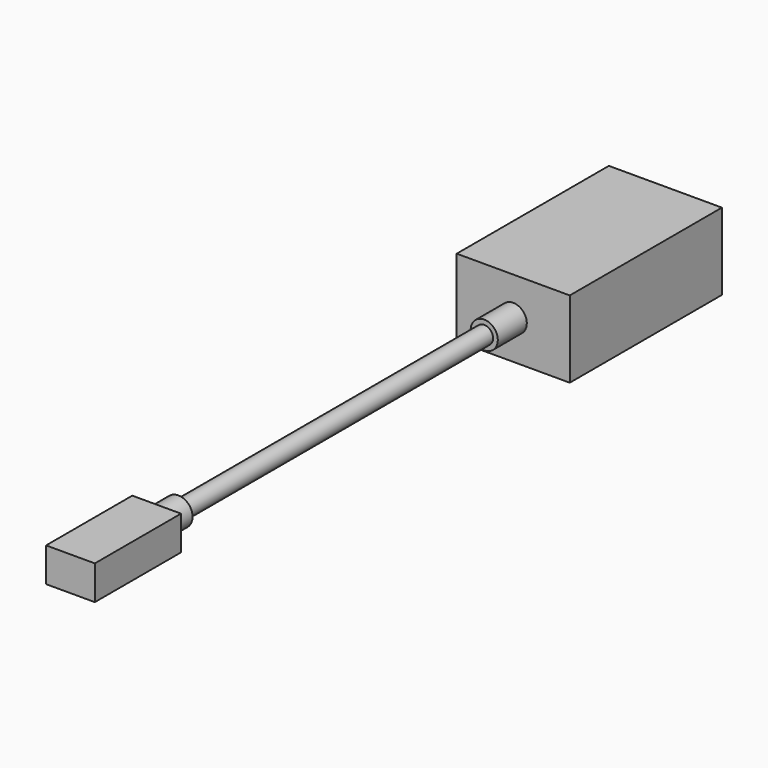
from build123d import *

# Parameters (mm, degrees)
F1_DEPTH = 7.79
F2_DEPTH = 3.46
F3_R     = 2.875
F4_DEPTH = 5.5
F5_R     = 1.8
F7_R     = 2.75
F8_DEPTH = 7.35


with BuildPart() as f1:
    # F0 (on Top) → F1 (new body, symmetric)
    with BuildSketch(Plane.XY):
        Polygon((-2.75, 101.27), (2.75, 101.27), (11.46, 101.27), (11.46, 139.82), (-11.46, 139.82), (-11.46, 101.27), align=None)
    extrude(amount=F1_DEPTH, both=True)



with BuildPart() as f2:
    # F0 (on Top) → F2 (new body, symmetric)
    with BuildSketch(Plane.XY):
        Polygon((-4.94, -10.92), (4.94, -10.92), (4.94, 10.92), (2.875, 10.92), (-2.875, 10.92), (-4.94, 10.92), align=None)
    extrude(amount=F2_DEPTH, both=True)

    # F3 (on face) → F4 (join, through all)
    with BuildSketch(Plane(origin=(0, 10.92, 0), x_dir=(-1, 0, 0), z_dir=(0, 1, 0))):
        Circle(F3_R)
    extrude(amount=F4_DEPTH)

    # F6: sweep along a path in F0
    with BuildLine(Plane.XY) as f6_path:
        Line((1.8, 16.42), (1.8, 93.92))
    # F5 (on face) → F6 (sweep)
    with BuildSketch(Plane(origin=(0, 16.42, 0), x_dir=(-1, 0, 0), z_dir=(0, 1, 0))):
        Circle(F5_R)
    sweep(path=f6_path.line)


with BuildPart() as f1_1:
    add(f1.part)

    add(f2.part)  # F8 merges F2
    # F7 (on face) → F8 (join, through all)
    with BuildSketch(Plane.XZ.offset(-101.27)):
        Circle(F7_R)
    extrude(amount=F8_DEPTH)


solid = f1_1.part
